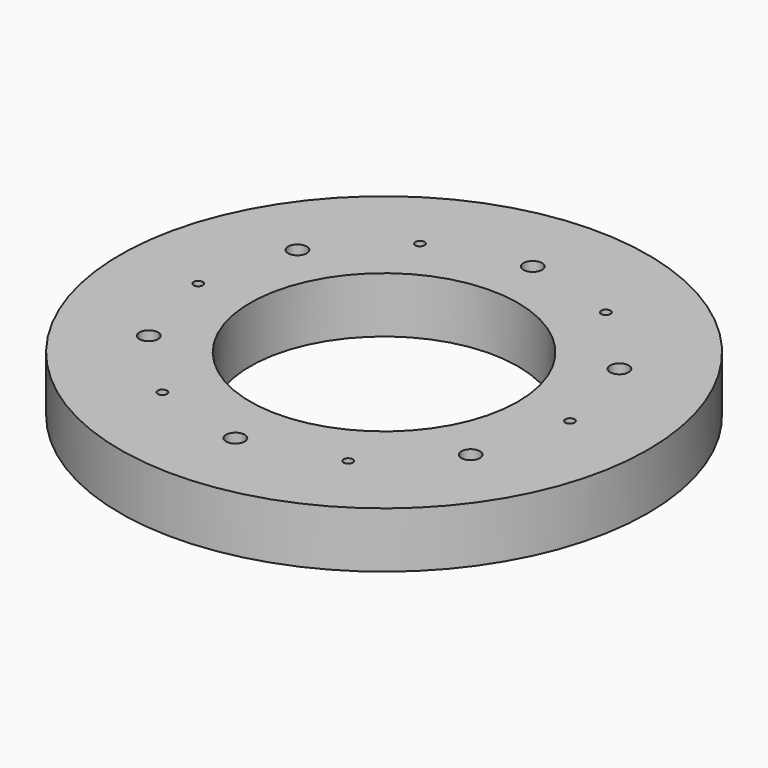
from build123d import *

# Parameters (mm, degrees)
F0_R     = 14.2
F0_R_2   = 7.2
F1_DEPTH = 3
F3_D     = 1
F5_D     = 0.5


with BuildPart() as f1:
    # F0 (on Top) → F1 (new body)
    with BuildSketch(Plane.XY):
        Circle(F0_R)
        Circle(F0_R_2, mode=Mode.SUBTRACT)
    extrude(amount=F1_DEPTH)

    # F3 (through all)
    with Locations(Plane.XY.offset(3)):
        with Locations((0, 10), (8.660254, 5), (8.660254, -5), (0, -10), (-8.660254, 5), (-8.660254, -5)):
            Hole(F3_D / 2)

    # F5 (through all)
    with Locations(Plane.XY.offset(3)):
        with Locations((-5, 8.660254), (5, 8.660254), (10, 0), (5, -8.660254), (-5, -8.660254), (-10, 0)):
            Hole(F5_D / 2)


solid = f1.part
